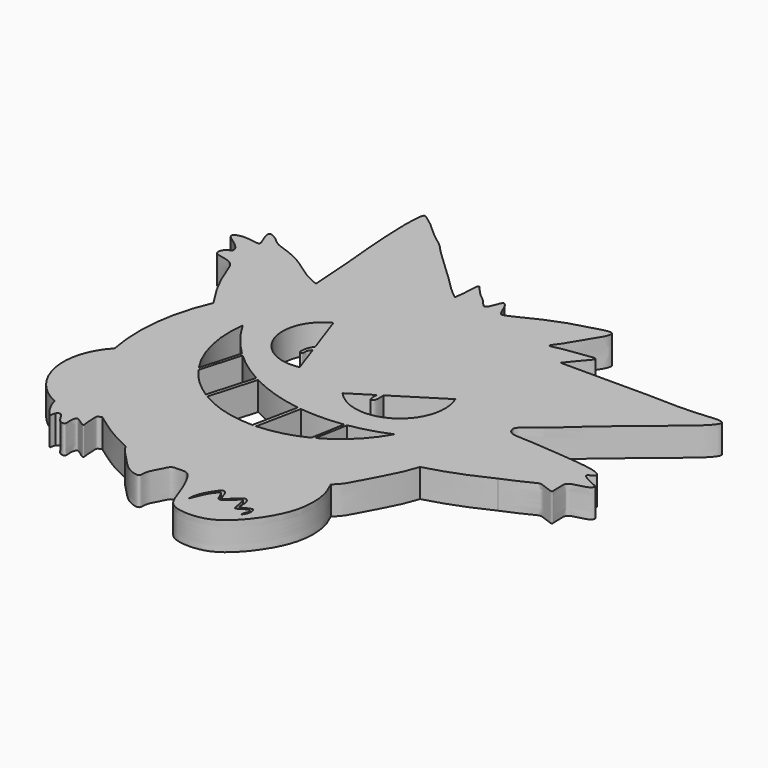
from build123d import *

# Parameters (mm, degrees)
F1_DEPTH = 8.382


with BuildPart() as f1:
    # F0 (on Top) → F1 (new body)
    with BuildSketch(Plane.XY):
        with BuildLine():
            add(Edge.make_bspline(
                [(-44.1963523626, 33.5040315986), (-44.4860254004, 38.1342560026), (-45.073045924, 47.5173755887), (-46.464859293, 59.5490995637), (-46.9455431158, 76.8060936221), (-44.7877832047, 75.3370093094), (-41.5968059352, 73.0463508294), (-37.8539990446, 69.2756882498), (-34.422550191, 67.0545591042), (-32.8629136893, 65.2850357028), (-31.755632582, 64.162670399), (-31.1998296529, 63.5992959142)],
                knots=[0, 0, 0, 0, 0.1699641019, 0.344431145, 0.5196260284, 0.5656971025, 0.6581989215, 0.7671058064, 0.8596076254, 0.9295296447, 1, 1, 1, 1], degree=3))
            add(Edge.make_bspline(
                [(-56.7146167159, 11.1559536308), (-57.9532755388, 13.0337621609), (-60.5643036165, 16.9920844255), (-64.2171665716, 24.6136768283), (-65.8056508814, 30.5790688922), (-72.6887223976, 30.309445039), (-71.5317904924, 33.8388968685), (-68.7232120927, 34.5063587995), (-71.3558009404, 37.7194107299), (-75.9950008555, 40.1366177749), (-71.8225168415, 42.1112773918), (-65.9450919543, 40.0797779215), (-67.8655908925, 43.4321993015), (-69.0177735484, 47.3136694805), (-65.4630460261, 45.3453105821), (-63.7636507995, 43.3925375329), (-59.7328655124, 42.2634478474), (-54.3533411608, 39.9177406743), (-49.1533711499, 35.6307057046), (-45.7826009166, 34.1845684031), (-44.1963523626, 33.5040315986)],
                knots=[0, 0, 0, 0, 0.0720356463, 0.1518473786, 0.2160119092, 0.2770147455, 0.3180623873, 0.356882859, 0.4063676576, 0.4611421307, 0.5081633126, 0.5676461681, 0.6103881025, 0.6567285931, 0.7003309381, 0.7461044546, 0.8000160828, 0.866514067, 0.9371829423, 1, 1, 1, 1], degree=3))
            ThreePointArc((-56.7146167159, 11.1559536308), (-60.9809314804, -4.5870808902), (-60.3552274406, -20.8859480917))
            ThreePointArc((-60.3552274406, -20.8859480917), (-65.0832619868, -36.98288933), (-54.7061339021, -50.1654930413))
            add(Edge.make_bspline(
                [(-50.6839156151, -54.8108555377), (-50.7568546731, -55.0134835807), (-50.8954471724, -55.3984998903), (-50.9823615721, -55.8321312258), (-50.9801660989, -56.543791557), (-51.5985404022, -55.941214751), (-52.584370942, -54.7854459946), (-53.4760320884, -53.3458988151), (-54.4524384626, -51.259646676), (-54.6324395273, -50.4833267722), (-54.7061339021, -50.1654930413)],
                knots=[0, 0, 0, 0, 0.0973623676, 0.1849995631, 0.269552772, 0.3607575767, 0.5169434723, 0.683042744, 0.8702342852, 1, 1, 1, 1], degree=3))
            add(Edge.make_bspline(
                [(-40.9895032644, -49.6056228876), (-41.4704211343, -49.7311029623), (-42.4350136889, -49.9827824139), (-42.1224051532, -51.5184482403), (-42.217156272, -53.9851991488), (-41.7572907531, -55.6673918209), (-43.13818346, -54.9351458955), (-44.0531515274, -54.1288911509), (-45.3155558553, -53.4163308425), (-45.6216651288, -54.5091783386), (-45.8614460041, -55.4648034279), (-45.5044757945, -57.239890878), (-46.2475560572, -57.7716193996), (-47.5553618339, -57.2559865929), (-48.4039804176, -55.8504651413), (-49.0267292727, -54.7153324531), (-49.9358906314, -54.0264229237), (-50.4322218136, -54.5469113768), (-50.6839156151, -54.8108555377)],
                knots=[0, 0, 0, 0, 0.0634375848, 0.1272388194, 0.220237554, 0.2807386143, 0.3368849942, 0.4051155517, 0.4640526085, 0.5145207164, 0.5736211227, 0.6463269677, 0.6920338746, 0.7546625853, 0.8269413149, 0.8921845352, 0.9453258527, 1, 1, 1, 1], degree=3))
            add(Edge.make_bspline(
                [(-27.6831444353, -57.6102286577), (-29.8908116762, -56.5494472153), (-34.0421701623, -54.5547244776), (-38.7044545306, -51.2398338565), (-40.3267182512, -50.0796305193), (-40.9895032644, -49.6056228876)],
                knots=[0, 0, 0, 0, 0.4018313786, 0.7556148285, 1, 1, 1, 1], degree=3))
            add(Edge.make_bspline(
                [(21.3237758726, -42.8594201803), (22.0640389165, -44.4429910719), (23.7332196929, -48.0137030129), (24.0236460454, -57.0266480906), (19.4614708975, -66.0587024084), (13.7675088757, -72.3929203027), (8.3817381258, -75.1326714341), (1.2271438878, -75.0737624451), (-2.1087857355, -72.7091775628), (-3.4444233949, -67.7845223476), (-5.9618743433, -62.1168072406), (-8.03482575, -58.7407950355), (-10.6796596894, -58.8980368353), (-13.2336548394, -58.8003752679), (-13.947506797, -61.1866187143), (-16.2636450738, -64.5908995537), (-15.5884193299, -67.7420450339), (-20.1661244154, -66.297542365), (-23.1973880785, -62.8130049605), (-26.0952907373, -60.1414096535), (-27.180125691, -58.4120855842), (-27.6831444353, -57.6102286577)],
                knots=[0, 0, 0, 0, 0.057538752, 0.1297411503, 0.207955827, 0.2786989694, 0.3385438385, 0.402305496, 0.4492430062, 0.5037690934, 0.566159402, 0.6124106861, 0.6504973374, 0.6869207233, 0.7232425333, 0.7737055707, 0.8094205269, 0.8548392015, 0.9097236338, 0.9581404487, 1, 1, 1, 1], degree=3))
            add(Edge.make_bspline(
                [(31.9826416671, -23.1386441737), (31.4921674013, -24.5961321461), (30.3425303867, -28.0123809445), (25.9816065288, -35.9317595551), (23.5419379257, -40.8101609277), (21.9766027752, -42.2563030327), (21.3237758726, -42.8594201803)],
                knots=[0, 0, 0, 0, 0.2423616585, 0.5680785984, 0.8198661094, 1, 1, 1, 1], degree=3))
            add(Edge.make_bspline(
                [(49.6673099697, -16.4276957512), (48.5966040306, -16.9358865381), (46.0678485433, -18.1361135977), (39.4324018377, -20.989773999), (34.5078188371, -22.4102612752), (31.9826416671, -23.1386441737)],
                knots=[0, 0, 0, 0, 0.2635108628, 0.6223506528, 1, 1, 1, 1], degree=3))
            add(Edge.make_bspline(
                [(68.5901343822, -4.8916786909), (69.1376642364, -5.0332662211), (70.2301062666, -5.3157643675), (69.0263978222, -6.8865161105), (66.6400743219, -7.3561257198), (64.5699390674, -7.8843251946), (63.3034381192, -8.7189436779), (63.5765231267, -10.5773168216), (63.3778859457, -12.5021077471), (63.7668615008, -14.0550496461), (61.7359028913, -13.0429818434), (60.1804137047, -12.6351440096), (58.9006409246, -12.0662404391), (56.7912804422, -13.1920799718), (54.1746338659, -14.4986325347), (51.5269984563, -15.638528078), (50.2473260601, -16.1815631587), (49.6673099697, -16.4276957512)],
                knots=[0, 0, 0, 0, 0.0566189836, 0.1129672783, 0.1913405483, 0.2640369951, 0.3193871336, 0.383675191, 0.4555143431, 0.503967624, 0.567280997, 0.633326542, 0.6879350075, 0.7610742678, 0.847258431, 0.9307693376, 1, 1, 1, 1], degree=3))
            add(Edge.make_bspline(
                [(24.7568693012, 37.9425399005), (26.8080920959, 37.9447215186), (31.6084865705, 37.949827072), (43.7905327954, 37.9032004291), (53.5257047704, 38.0759361196), (63.3996945564, 37.4438482439), (74.6072857092, 39.3032215271), (70.3785067719, 33.9743879229), (64.2592979918, 29.2586703118), (57.6716176156, 23.551816324), (48.1005711318, 15.8831109803), (42.3292610021, 9.9704045068), (37.2569668784, 6.6690290325), (36.6063941413, 4.9896117233), (37.9346028405, 2.8165278885), (41.7182204351, 2.9558361008), (49.3587629247, 2.3078247121), (55.9018827623, 1.8265270949), (65.6395328551, 0.8029864791), (66.9275789999, -1.3293998586), (63.9250720673, -2.1422677957), (65.927449934, -3.6187246926), (67.5970769263, -4.4169260555), (68.5901343822, -4.8916786909)],
                knots=[0, 0, 0, 0, 0.0513026128, 0.120061448, 0.1821135093, 0.247604872, 0.3038907146, 0.3421400579, 0.3988344174, 0.4579503544, 0.5270447132, 0.5854940159, 0.6322339023, 0.6561187615, 0.683879287, 0.7210084402, 0.7751461348, 0.8293174847, 0.8898914099, 0.9124545908, 0.9402150958, 0.9644412524, 1, 1, 1, 1], degree=3))
            add(Edge.make_bspline(
                [(8.0452868715, 52.2705689073), (9.8584431765, 53.043638701), (13.5576232028, 54.6208465412), (19.13912552, 55.9290089884), (25.1357623784, 57.9225235105), (24.9485101759, 55.0102787268), (21.8267226653, 50.871344632), (19.7520209334, 46.1842403467), (16.1558607305, 42.3086129825), (20.5900219364, 43.7351903051), (23.7571002959, 43.798330106), (31.4539758431, 45.4710666702), (28.1620151701, 42.3671711574), (25.9632931428, 39.3726336277), (25.0982966156, 38.3472675293), (24.7568693012, 37.9425399005)],
                knots=[0, 0, 0, 0, 0.0932516069, 0.1902508244, 0.276838341, 0.3259022378, 0.413457716, 0.5072673233, 0.5766542018, 0.6392367384, 0.7200304691, 0.8103475894, 0.8702211793, 0.9487743213, 1, 1, 1, 1], degree=3))
            add(Edge.make_bspline(
                [(-1.5832145, 48.8085858524), (-1.4590569145, 48.6254134919), (-1.2017752062, 48.2458402453), (-0.3759459023, 48.3277132433), (0.8809689711, 48.8266063087), (2.9726005637, 49.764006068), (5.6737697468, 51.2268918926), (7.2793146258, 51.9334734596), (8.0452868715, 52.2705689073)],
                knots=[0, 0, 0, 0, 0.102425757, 0.2122486003, 0.3623811222, 0.5607201379, 0.7904286657, 1, 1, 1, 1], degree=3))
            add(Edge.make_bspline(
                [(-14.8503864184, 48.358630389), (-14.668855673, 49.5540011771), (-14.3134653053, 51.8942287941), (-14.4056966202, 56.5755767996), (-13.2798570208, 55.5790570536), (-12.4320000958, 54.3571010813), (-10.2942930349, 52.2943516644), (-8.5245246096, 51.0475891812), (-7.3961129404, 49.3606160358), (-6.4470755111, 48.702297971), (-5.7101634448, 49.8706641668), (-5.0501714114, 51.4675728668), (-4.3920751968, 53.5184145848), (-3.1785902404, 52.3767812682), (-2.6013524071, 50.9576504462), (-2.0654478501, 49.8813693739), (-1.7430472099, 49.1641520888), (-1.5832145, 48.8085858524)],
                knots=[0, 0, 0, 0, 0.1010390618, 0.1978084165, 0.2397175109, 0.3037372599, 0.3903943154, 0.4664464222, 0.5380919288, 0.5846563546, 0.6368982987, 0.7083295436, 0.7726183697, 0.8257014771, 0.8902340511, 0.9455826482, 1, 1, 1, 1], degree=3))
            add(Edge.make_bspline(
                [(-31.1998296529, 63.5992959142), (-30.041974785, 62.4392402234), (-27.6637103784, 60.0564552687), (-23.3439147836, 56.4358449886), (-19.8263656174, 52.5187166195), (-15.8381132976, 48.9933209573), (-15.0847898596, 48.5092526475), (-14.8503864184, 48.358630389)],
                knots=[0, 0, 0, 0, 0.2179724858, 0.4477212292, 0.6795186874, 0.900279324, 1, 1, 1, 1], degree=3))
        make_face()
        with BuildLine():
            ThreePointArc((-39.0949084576, -16.2925011098), (-43.8391454914, -5.324265796), (-44.3680398166, 6.6143372096))
            ThreePointArc((-44.3680398166, 6.6143372096), (-40.451196472, 0.7600882585), (-35.7304823502, -4.467602508))
            ThreePointArc((-35.7304823502, -4.467602508), (-35.3746008529, -4.8050826574), (-35.0153372563, -5.1389601194))
            ThreePointArc((-35.0153372563, -5.1389601194), (-30.4497317616, -8.8555685304), (-25.4688598489, -11.9938557388))
            ThreePointArc((-25.4688598489, -11.9938557388), (-25.0056475023, -12.2447002728), (-24.5397478381, -12.4905176058))
            ThreePointArc((-24.5397478381, -12.4905176058), (-16.844419428, -15.6930882813), (-8.7155464339, -17.5359019227))
            ThreePointArc((-8.7155464339, -17.5359019227), (-8.2089554894, -17.6031446164), (-7.7016865522, -17.6650654543))
            ThreePointArc((-7.7016865522, -17.6650654543), (-1.3662644733, -17.9885321971), (4.9574256762, -17.4853954922))
            ThreePointArc((4.9574256762, -17.4853954922), (5.3581955268, -17.4253318221), (5.7584514719, -17.3619339036))
            ThreePointArc((5.7584514719, -17.3619339036), (11.5511447107, -16.0526476811), (17.1412937343, -14.0477139503))
            ThreePointArc((17.1412937343, -14.0477139503), (11.49920245, -21.4423272189), (4.018526785, -26.9698032296))
            ThreePointArc((4.018526785, -26.9698032296), (3.5902730474, -27.1969564031), (3.1587302302, -27.417797126))
            ThreePointArc((3.1587302302, -27.417797126), (-3.4202650869, -29.8869077525), (-10.3727883853, -30.9077439067))
            ThreePointArc((-10.3727883853, -30.9077439067), (-10.9264626111, -30.9247885232), (-11.4803448734, -30.9325413798))
            ThreePointArc((-11.4803448734, -30.9325413798), (-20.3177482007, -29.7791425052), (-28.5246457908, -26.3039650307))
            ThreePointArc((-28.5246457908, -26.3039650307), (-28.9821998356, -26.0271751667), (-29.4352107253, -25.7430106606))
            ThreePointArc((-29.4352107253, -25.7430106606), (-34.3477373635, -21.907794548), (-38.4519882911, -17.2177066036))
            ThreePointArc((-38.4519882911, -17.2177066036), (-38.7773952877, -16.7578465449), (-39.0949084576, -16.2925011098))
        make_face(mode=Mode.SUBTRACT)
        with BuildLine():
            add(Edge.make_bspline(
                [(0, -69.005869329), (0.2357419651, -68.4440086876), (0.7220222156, -67.2850222791), (1.4810773765, -65.340225764), (2.4371346206, -63.5993876831), (3.4281746909, -62.4638950662), (3.8979471625, -61.6679856476), (4.3988204801, -62.4440253712), (5.025632333, -63.6788099681), (5.3899199564, -64.9887680505), (6.7550919855, -64.755851496), (7.7859704844, -63.6054654352), (9.234477853, -62.4957879065), (10.2117442215, -61.3420816989), (10.6052406985, -62.1220868304), (10.9443981096, -63.9541178822), (11.1486682848, -65.2564175969), (11.5034081991, -66.4298719782), (12.9207676937, -65.284119909), (14.1502672087, -64.6953947396), (14.8672429237, -64.5792267316), (15.212181889, -65.6955003511), (14.3980728614, -66.9549510503), (14.54357852, -67.3595586334), (14.5980427042, -67.5110071898)],
                knots=[0, 0, 0, 0, 0.0557740628, 0.1150487789, 0.173104877, 0.2243511003, 0.2569925837, 0.2896472313, 0.3402570579, 0.3843497146, 0.4262442929, 0.4772929326, 0.5349606934, 0.5792999716, 0.6093697108, 0.6660930433, 0.7156851504, 0.7520657204, 0.8015694532, 0.8516094376, 0.8816607879, 0.9212239833, 0.9705133702, 1, 1, 1, 1], degree=3))
            add(Edge.make_bspline(
                [(0, -69.005869329), (0.0652271168, -68.0439490487), (0.2062938499, -65.9636033552), (2.2008956671, -62.5686661166), (3.6169758139, -60.6300009681), (4.6305091869, -61.0673450746), (5.2979173485, -62.1806761946), (5.6013733327, -63.7099866503), (6.3285217856, -64.4764737551), (7.5648935997, -62.9556060078), (9.3545308943, -61.412468489), (10.456522841, -60.443991482), (11.7562479198, -61.8628557836), (11.6687737965, -63.0899897826), (11.6431652685, -64.5687133151), (12.2213232515, -65.1440972336), (14.0901970794, -63.9507338881), (15.3153901577, -63.7121888527), (15.5252770841, -64.93518228), (15.5555523403, -66.0615639734), (14.9383349931, -66.9958851155), (14.5980427042, -67.5110071898)],
                knots=[0, 0, 0, 0, 0.0740036503, 0.1600477487, 0.22198714, 0.2598577681, 0.3083540667, 0.3625006051, 0.3980276438, 0.4528161333, 0.5216476365, 0.56762715, 0.6197729104, 0.6686089813, 0.7193165112, 0.7507098834, 0.81299078, 0.856362676, 0.8985255714, 0.9440537993, 1, 1, 1, 1], degree=3))
        make_face(mode=Mode.SUBTRACT)
        with BuildLine():
            ThreePointArc((17.1412937343, 8.5216034204), (11.9842576218, -7.9673389151), (-5.1101455465, -5.465015769))
            Line((-5.1101455465, -5.465015769), (1.6605744347, -1.2091345732))
            add(Edge.make_bspline(
                [(1.6605744347, -1.2091345732), (1.6218341761, -1.6776907891), (1.5463363543, -2.5908228906), (1.84540385, -4.3281195334), (2.9354723626, -3.6759961586), (3.0281349808, -2.0944092363), (3.0587509297, -1.2773278545), (2.9748859989, -0.6983161235), (2.9330256401, -0.409308089)],
                knots=[0, 0, 0, 0, 0.1927246192, 0.3755857475, 0.5129313721, 0.709385832, 0.8549427844, 1, 1, 1, 1], degree=3))
            Line((2.9330256401, -0.409308089), (17.1412937343, 8.5216034204))
        make_face(mode=Mode.SUBTRACT)
        with BuildLine():
            Line((-23.9921446487, 7.0459262332), (-21.004030481, -1.491544419))
            ThreePointArc((-21.004030481, -1.491544419), (-34.6966219479, 6.2046695784), (-28.792032972, 20.7598954439))
            Line((-28.792032972, 20.7598954439), (-24.5979981857, 8.7769366637))
            add(Edge.make_bspline(
                [(-24.5979981857, 8.7769366637), (-24.9435914909, 8.2097829481), (-25.6009151137, 7.1310481187), (-25.8493095003, 5.5747217235), (-25.9318066123, 4.4904202653), (-25.0880141166, 3.9675464179), (-24.7627533776, 4.8058851806), (-24.8940500858, 5.5669593779), (-24.6594142571, 6.2978490685), (-24.2263780338, 6.7833267615), (-23.9921446487, 7.0459262332)],
                knots=[0, 0, 0, 0, 0.1732988169, 0.3296169355, 0.4551259587, 0.5563866547, 0.6580218345, 0.7692566985, 0.8751887678, 1, 1, 1, 1], degree=3))
        make_face(mode=Mode.SUBTRACT)
        with BuildLine():
            ThreePointArc((-35.0153372563, -5.1389601194), (-35.3746008529, -4.8050826574), (-35.7304823502, -4.467602508))
            Line((-35.7304823502, -4.467602508), (-39.0949084576, -16.2925011098))
            ThreePointArc((-39.0949084576, -16.2925011098), (-38.7773952877, -16.7578465449), (-38.4519882911, -17.2177066036))
            Line((-38.4519882911, -17.2177066036), (-35.0153372563, -5.1389601194))
        make_face()
        with BuildLine():
            ThreePointArc((-24.5397478381, -12.4905176058), (-25.0056475023, -12.2447002728), (-25.4688598489, -11.9938557388))
            Line((-25.4688598489, -11.9938557388), (-29.4352107253, -25.7430106606))
            ThreePointArc((-29.4352107253, -25.7430106606), (-28.9821998356, -26.0271751667), (-28.5246457908, -26.3039650307))
            Line((-28.5246457908, -26.3039650307), (-24.5397478381, -12.4905176058))
        make_face()
        with BuildLine():
            ThreePointArc((-7.7016865522, -17.6650654543), (-8.2089554894, -17.6031446164), (-8.7155464339, -17.5359019227))
            Line((-8.7155464339, -17.5359019227), (-11.4803448734, -30.9325413798))
            ThreePointArc((-11.4803448734, -30.9325413798), (-10.9264626111, -30.9247885232), (-10.3727883853, -30.9077439067))
            Line((-10.3727883853, -30.9077439067), (-7.7016865522, -17.6650654543))
        make_face()
        with BuildLine():
            ThreePointArc((5.7584514719, -17.3619339036), (5.3581955268, -17.4253318221), (4.9574256762, -17.4853954922))
            Line((4.9574256762, -17.4853954922), (3.1587302302, -27.417797126))
            ThreePointArc((3.1587302302, -27.417797126), (3.5902730474, -27.1969564031), (4.018526785, -26.9698032296))
            Line((4.018526785, -26.9698032296), (5.7584514719, -17.3619339036))
        make_face()
    extrude(amount=F1_DEPTH)


solid = f1.part
